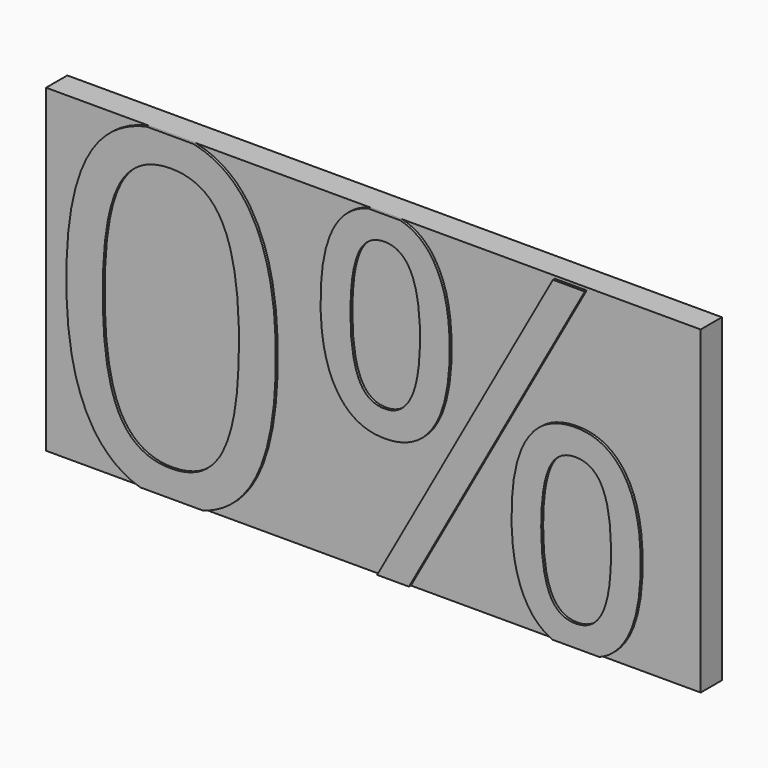
from build123d import *

# Parameters (mm, degrees)
F0_W     = 68.8751786947
F0_H     = 33.63404423
F1_DEPTH = 2.794
F3_DEPTH = 0.254


with BuildPart() as f1:
    # F0 (on Front) → F1 (new body)
    with BuildSketch(Plane.XZ):
        with Locations((0, 16.817022115)):
            Rectangle(F0_W, F0_H)
    extrude(amount=F1_DEPTH)


with BuildPart() as f3:
    # F2 (on face) → F3 (new body)
    with BuildSketch(Plane.XZ.offset(2.794)):
        with BuildLine():
            add(Edge.make_bspline(
                [(-10.0514474697, 16.7221344034), (-10.0514474697, 8.0727545396), (-12.7776444141, 3.8064570456)],
                knots=[0, 0, 0, 1, 1, 1], degree=2))
            add(Edge.make_bspline(
                [(-12.8688825983, 29.4699335023), (-10.0514474697, 25.0649539683), (-10.0514474697, 16.7221344034)],
                knots=[0, 0, 0, 1, 1, 1], degree=2))
            add(Edge.make_bspline(
                [(-18.7199673823, 33.63404423), (-15.0274894089, 32.8448537359), (-12.8688825983, 29.4699335023)],
                knots=[0.2338397471, 0.2338397471, 0.2338397471, 1, 1, 1], degree=2))
            Line((-18.7199673823, 33.63404423), (-23.6112188327, 33.63404423))
            add(Edge.make_bspline(
                [(-29.3939425238, 29.6524098707), (-27.327201431, 32.8664145003), (-23.6112188327, 33.63404423)],
                knots=[0, 0, 0, 0.7611609757, 0.7611609757, 0.7611609757], degree=2))
            add(Edge.make_bspline(
                [(-32.1091908861, 16.7221344034), (-32.1091908861, 25.4299067051), (-29.3939425238, 29.6524098707)],
                knots=[0, 0, 0, 1, 1, 1], degree=2))
            add(Edge.make_bspline(
                [(-29.3027043396, 3.9086438119), (-32.1091908861, 8.2771280722), (-32.1091908861, 16.7221344034)],
                knots=[0, 0, 0, 1, 1, 1], degree=2))
            add(Edge.make_bspline(
                [(-24.3365989243, 0), (-27.406762265, 0.9574830013), (-29.3027043396, 3.9086438119)],
                knots=[0.3244428423, 0.3244428423, 0.3244428423, 1, 1, 1], degree=2))
            Line((-24.3365989243, 0), (-17.742425301, 0))
            add(Edge.make_bspline(
                [(-12.7776444141, 3.8064570456), (-14.608816199, 0.9408080274), (-17.742425301, 0)],
                knots=[0, 0, 0, 0.6716946069, 0.6716946069, 0.6716946069], degree=2))
        make_face()
        with BuildLine():
            add(Edge.make_bspline(
                [(-28.277187149, 16.7221344034), (-28.277187149, 9.4449768302), (-26.5655588131, 6.1239069247)],
                knots=[0, 0, 0, 1, 1, 1], degree=2))
            add(Edge.make_bspline(
                [(-26.5655588131, 27.2948151905), (-28.277187149, 23.9992919766), (-28.277187149, 16.7221344034)],
                knots=[0, 0, 0, 1, 1, 1], degree=2))
            add(Edge.make_bspline(
                [(-21.1168144516, 30.5903384045), (-24.8539304771, 30.5903384045), (-26.5655588131, 27.2948151905)],
                knots=[0, 0, 0, 1, 1, 1], degree=2))
            add(Edge.make_bspline(
                [(-15.6315748164, 27.2473713348), (-17.3286050429, 30.5903384045), (-21.1168144516, 30.5903384045)],
                knots=[0, 0, 0, 1, 1, 1], degree=2))
            add(Edge.make_bspline(
                [(-13.93454459, 16.7221344034), (-13.93454459, 23.904404265), (-15.6315748164, 27.2473713348)],
                knots=[0, 0, 0, 1, 1, 1], degree=2))
            add(Edge.make_bspline(
                [(-15.6315748164, 6.1677012531), (-13.93454459, 9.5325654871), (-13.93454459, 16.7221344034)],
                knots=[0, 0, 0, 1, 1, 1], degree=2))
            add(Edge.make_bspline(
                [(-21.1168144516, 2.8028370192), (-17.3286050429, 2.8028370192), (-15.6315748164, 6.1677012531)],
                knots=[0, 0, 0, 1, 1, 1], degree=2))
            add(Edge.make_bspline(
                [(-26.5655588131, 6.1239069247), (-24.8539304771, 2.8028370192), (-21.1168144516, 2.8028370192)],
                knots=[0, 0, 0, 1, 1, 1], degree=2))
        make_face(mode=Mode.SUBTRACT)
        with BuildLine():
            Line((3.0142607646, 33.63404423), (-0.3019784181, 33.63404423))
            add(Edge.make_bspline(
                [(-3.6574755197, 31.2034590024), (-2.4144758254, 33.1186387889), (-0.3019784181, 33.63404423)],
                knots=[0, 0, 0, 0.730884043, 0.730884043, 0.730884043], degree=2))
            add(Edge.make_bspline(
                [(-5.3581552735, 23.4007694881), (-5.3581552735, 28.5830983517), (-3.6574755197, 31.2034590024)],
                knots=[0, 0, 0, 1, 1, 1], degree=2))
            add(Edge.make_bspline(
                [(-3.5917840271, 15.6017295012), (-5.3581552735, 18.3133283362), (-5.3581552735, 23.4007694881)],
                knots=[0, 0, 0, 1, 1, 1], degree=2))
            add(Edge.make_bspline(
                [(1.3715731944, 12.8901306663), (-1.8254127806, 12.8901306663), (-3.5917840271, 15.6017295012)],
                knots=[0, 0, 0, 1, 1, 1], degree=2))
            add(Edge.make_bspline(
                [(6.4918600927, 15.5469865907), (4.7437364831, 12.8901306663), (1.3715731944, 12.8901306663)],
                knots=[0, 0, 0, 1, 1, 1], degree=2))
            add(Edge.make_bspline(
                [(8.2399837023, 23.4007694881), (8.2399837023, 18.2038425151), (6.4918600927, 15.5469865907)],
                knots=[0, 0, 0, 1, 1, 1], degree=2))
            add(Edge.make_bspline(
                [(6.4590143463, 31.1122208182), (8.2399837023, 28.4006219833), (8.2399837023, 23.4007694881)],
                knots=[0, 0, 0, 1, 1, 1], degree=2))
            add(Edge.make_bspline(
                [(3.0142607646, 33.63404423), (5.1491998901, 33.1064670088), (6.4590143463, 31.1122208182)],
                knots=[0.2645496949, 0.2645496949, 0.2645496949, 1, 1, 1], degree=2))
        make_face()
        with BuildLine():
            add(Edge.make_bspline(
                [(-2.2122626817, 23.4007694881), (-2.2122626817, 19.5249714226), (-1.3655723322, 17.5870723898)],
                knots=[0, 0, 0, 1, 1, 1], degree=2))
            add(Edge.make_bspline(
                [(-1.3655723322, 29.199868477), (-2.2122626817, 27.2838666084), (-2.2122626817, 23.4007694881)],
                knots=[0, 0, 0, 1, 1, 1], degree=2))
            add(Edge.make_bspline(
                [(1.3715731944, 31.1158703456), (-0.5188819826, 31.1158703456), (-1.3655723322, 29.199868477)],
                knots=[0, 0, 0, 1, 1, 1], degree=2))
            add(Edge.make_bspline(
                [(5.1086892199, 23.4007694881), (5.1086892199, 31.1158703456), (1.3715731944, 31.1158703456)],
                knots=[0, 0, 0, 1, 1, 1], degree=2))
            add(Edge.make_bspline(
                [(1.3715731944, 15.649173357), (5.1086892199, 15.649173357), (5.1086892199, 23.4007694881)],
                knots=[0, 0, 0, 1, 1, 1], degree=2))
            add(Edge.make_bspline(
                [(-1.3655723322, 17.5870723898), (-0.5188819826, 15.649173357), (1.3715731944, 15.649173357)],
                knots=[0, 0, 0, 1, 1, 1], degree=2))
        make_face(mode=Mode.SUBTRACT)
        with BuildLine():
            add(Edge.make_bspline(
                [(19.0519375034, 0), (17.5071916196, 0.657558775), (16.4806165008, 2.2554079139)],
                knots=[0.4115274459, 0.4115274459, 0.4115274459, 1, 1, 1], degree=2))
            Line((19.0519375034, 0), (23.9932337096, 0))
            add(Edge.make_bspline(
                [(26.5898073121, 2.2006650033), (25.5705803783, 0.6462373156), (23.9932337096, 0)],
                knots=[0, 0, 0, 0.5842602904, 0.5842602904, 0.5842602904], degree=2))
            add(Edge.make_bspline(
                [(28.3342813944, 10.0362002639), (28.3342813944, 4.8611704551), (26.5898073121, 2.2006650033)],
                knots=[0, 0, 0, 1, 1, 1], degree=2))
            add(Edge.make_bspline(
                [(26.5204662921, 17.7804973403), (28.3342813944, 15.1017442517), (28.3342813944, 10.0362002639)],
                knots=[0, 0, 0, 1, 1, 1], degree=2))
            add(Edge.make_bspline(
                [(21.4658708865, 20.459250429), (24.7066511899, 20.459250429), (26.5204662921, 17.7804973403)],
                knots=[0, 0, 0, 1, 1, 1], degree=2))
            add(Edge.make_bspline(
                [(16.4368221724, 17.8352402509), (18.1375019262, 20.459250429), (21.4658708865, 20.459250429)],
                knots=[0, 0, 0, 1, 1, 1], degree=2))
            add(Edge.make_bspline(
                [(14.7361424186, 10.0362002639), (14.7361424186, 15.2112300728), (16.4368221724, 17.8352402509)],
                knots=[0, 0, 0, 1, 1, 1], degree=2))
            add(Edge.make_bspline(
                [(16.4806165008, 2.2554079139), (14.7361424186, 4.9706562762), (14.7361424186, 10.0362002639)],
                knots=[0, 0, 0, 1, 1, 1], degree=2))
        make_face()
        with BuildLine():
            add(Edge.make_bspline(
                [(17.8601378462, 10.0362002639), (17.8601378462, 6.1385050342), (18.7068281957, 4.2115545835)],
                knots=[0, 0, 0, 1, 1, 1], degree=2))
            add(Edge.make_bspline(
                [(18.7068281957, 15.817051616), (17.8601378462, 13.9338954937), (17.8601378462, 10.0362002639)],
                knots=[0, 0, 0, 1, 1, 1], degree=2))
            add(Edge.make_bspline(
                [(21.4658708865, 17.7002077382), (19.5535185453, 17.7002077382), (18.7068281957, 15.817051616)],
                knots=[0, 0, 0, 1, 1, 1], degree=2))
            add(Edge.make_bspline(
                [(24.2979041246, 15.817051616), (23.3855222824, 17.7002077382), (21.4658708865, 17.7002077382)],
                knots=[0, 0, 0, 1, 1, 1], degree=2))
            add(Edge.make_bspline(
                [(25.2102859668, 10.0362002639), (25.2102859668, 13.9338954937), (24.2979041246, 15.817051616)],
                knots=[0, 0, 0, 1, 1, 1], degree=2))
            add(Edge.make_bspline(
                [(24.2979041246, 4.1860078919), (25.2102859668, 6.087411651), (25.2102859668, 10.0362002639)],
                knots=[0, 0, 0, 1, 1, 1], degree=2))
            add(Edge.make_bspline(
                [(21.4658708865, 2.2846041328), (23.3855222824, 2.2846041328), (24.2979041246, 4.1860078919)],
                knots=[0, 0, 0, 1, 1, 1], degree=2))
            add(Edge.make_bspline(
                [(18.7068281957, 4.2115545835), (19.5535185453, 2.2846041328), (21.4658708865, 2.2846041328)],
                knots=[0, 0, 0, 1, 1, 1], degree=2))
        make_face(mode=Mode.SUBTRACT)
        Polygon((19.0936780968, 33.3493810952), (0.5978733922, 0), (3.9481395167, 0), (22.4439442213, 33.3493810952), align=None)
    extrude(amount=F3_DEPTH)


solid = Compound([f1.part, f3.part])
